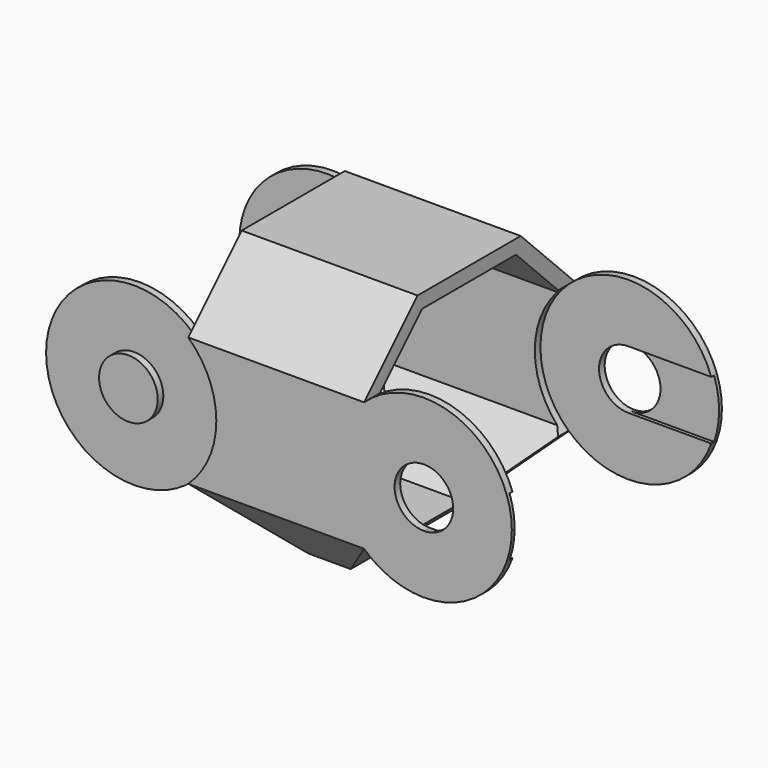
from build123d import *

# Parameters (mm, degrees)
F1_DEPTH  = 7.5
F2_R      = 7.5
F2_R_2    = 2.5
F3_DEPTH  = 11.2
F4_DEPTH  = 11.2
F5_DEPTH  = 10.6
F6_DEPTH  = 10.9
F7_DEPTH  = 10.6
F8_DEPTH  = 11.2
F9_DEPTH  = 10
F12_DEPTH = 22.4


with BuildPart() as f1:
    # F0 (on Right) → F1 (new body, symmetric)
    with BuildSketch(Plane.YZ):
        Polygon((-5, 10), (0, 10), (0, 11.2), (-5.497056, 11.2), (-11.2, 5.497056), (-11.2, -5.497056), (-5.497056, -11.2), (0, -11.2), (0, -10), (-5, -10), (-10, -5), (-10, 5), align=None)
    extrude(amount=F1_DEPTH, both=True)

    # F2 (on Front) → F3 (cut)
    with BuildSketch(Plane.XZ):
        with Locations((-12.602193, 0)):
            Circle(F2_R)
        with Locations((-12.602193, 0)):
            Circle(F2_R_2, mode=Mode.SUBTRACT)
        with BuildLine():
            Line((12.602193, 2.5), (19.673261, 2.5))
            ThreePointArc((19.673261, 2.5), (5.102193, 0), (19.673261, -2.5))
            Line((19.673261, -2.5), (12.602193, -2.5))
            ThreePointArc((12.602193, -2.5), (10.102193, 0), (12.602193, 2.5))
        make_face()
    extrude(amount=F3_DEPTH, mode=Mode.SUBTRACT)

    # F2 (on Front) → F4 (join)
    with BuildSketch(Plane.XZ):
        with BuildLine():
            Line((12.602193, 2.5), (19.673261, 2.5))
            ThreePointArc((19.673261, 2.5), (5.102193, 0), (19.673261, -2.5))
            Line((19.673261, -2.5), (12.602193, -2.5))
            ThreePointArc((12.602193, -2.5), (10.102193, 0), (12.602193, 2.5))
        make_face()
        with BuildLine():
            ThreePointArc((19.673261, -2.5), (19.994182, -1.268265), (20.102193, 0))
            ThreePointArc((20.102193, 0), (19.994182, 1.268265), (19.673261, 2.5))
            Line((19.673261, 2.5), (12.602193, 2.5))
            ThreePointArc((12.602193, 2.5), (14.36996, 1.767767), (15.102193, 0))
            ThreePointArc((15.102193, 0), (14.36996, -1.767767), (12.602193, -2.5))
            Line((12.602193, -2.5), (19.673261, -2.5))
        make_face()
    extrude(amount=F4_DEPTH)

    # F2 (on Front) → F5 (cut)
    with BuildSketch(Plane.XZ):
        with BuildLine():
            Line((12.602193, 2.5), (19.673261, 2.5))
            ThreePointArc((19.673261, 2.5), (5.102193, 0), (19.673261, -2.5))
            Line((19.673261, -2.5), (12.602193, -2.5))
            ThreePointArc((12.602193, -2.5), (10.102193, 0), (12.602193, 2.5))
        make_face()
        with BuildLine():
            ThreePointArc((19.673261, -2.5), (19.994182, -1.268265), (20.102193, 0))
            ThreePointArc((20.102193, 0), (19.994182, 1.268265), (19.673261, 2.5))
            Line((19.673261, 2.5), (12.602193, 2.5))
            ThreePointArc((12.602193, 2.5), (14.36996, 1.767767), (15.102193, 0))
            ThreePointArc((15.102193, 0), (14.36996, -1.767767), (12.602193, -2.5))
            Line((12.602193, -2.5), (19.673261, -2.5))
        make_face()
        with BuildLine():
            ThreePointArc((15.102193, 0), (14.36996, 1.767767), (12.602193, 2.5))
            ThreePointArc((12.602193, 2.5), (10.102193, 0), (12.602193, -2.5))
            ThreePointArc((12.602193, -2.5), (14.36996, -1.767767), (15.102193, 0))
        make_face()
    extrude(amount=F5_DEPTH, mode=Mode.SUBTRACT)

    # F2 (on Front) → F6 (cut)
    with BuildSketch(Plane.XZ):
        with BuildLine():
            ThreePointArc((15.102193, 0), (14.36996, 1.767767), (12.602193, 2.5))
            ThreePointArc((12.602193, 2.5), (10.102193, 0), (12.602193, -2.5))
            ThreePointArc((12.602193, -2.5), (14.36996, -1.767767), (15.102193, 0))
        make_face()
        with BuildLine():
            ThreePointArc((19.673261, -2.5), (19.994182, -1.268265), (20.102193, 0))
            ThreePointArc((20.102193, 0), (19.994182, 1.268265), (19.673261, 2.5))
            Line((19.673261, 2.5), (12.602193, 2.5))
            ThreePointArc((12.602193, 2.5), (14.36996, 1.767767), (15.102193, 0))
            ThreePointArc((15.102193, 0), (14.36996, -1.767767), (12.602193, -2.5))
            Line((12.602193, -2.5), (19.673261, -2.5))
        make_face()
    extrude(amount=F6_DEPTH, mode=Mode.SUBTRACT)

    # F2 (on Front) → F7 (join)
    with BuildSketch(Plane.XZ):
        with Locations((-12.602193, 0)):
            Circle(F2_R)
        with Locations((-12.602193, 0)):
            Circle(F2_R_2, mode=Mode.SUBTRACT)
    extrude(amount=F7_DEPTH)

    # F2 (on Front) → F8 (join)
    with BuildSketch(Plane.XZ):
        with Locations((-12.602193, 0)):
            Circle(F2_R_2)
    extrude(amount=F8_DEPTH)

    # F2 (on Front) → F9 (cut)
    with BuildSketch(Plane.XZ):
        with Locations((-12.602193, 0)):
            Circle(F2_R)
        with Locations((-12.602193, 0)):
            Circle(F2_R_2, mode=Mode.SUBTRACT)
        with Locations((-12.602193, 0)):
            Circle(F2_R_2)
    extrude(amount=F9_DEPTH, mode=Mode.SUBTRACT)

    # F10: F1 across plane


with BuildPart() as f1_1:
    add(f1.part)
    add(f1.part.mirror(Plane.XZ))

    # F11 (on face) → F12 (cut)
    with BuildSketch(Plane.XZ.offset(11.2)):
        Polygon((7.5, -11.2), (7.5, -5.497056), (1.797056, -11.2), align=None)
        Polygon((-1.797056, -11.2), (-7.5, -5.497056), (-7.5, -11.2), align=None)
    extrude(amount=-F12_DEPTH, mode=Mode.SUBTRACT)


solid = f1_1.part
